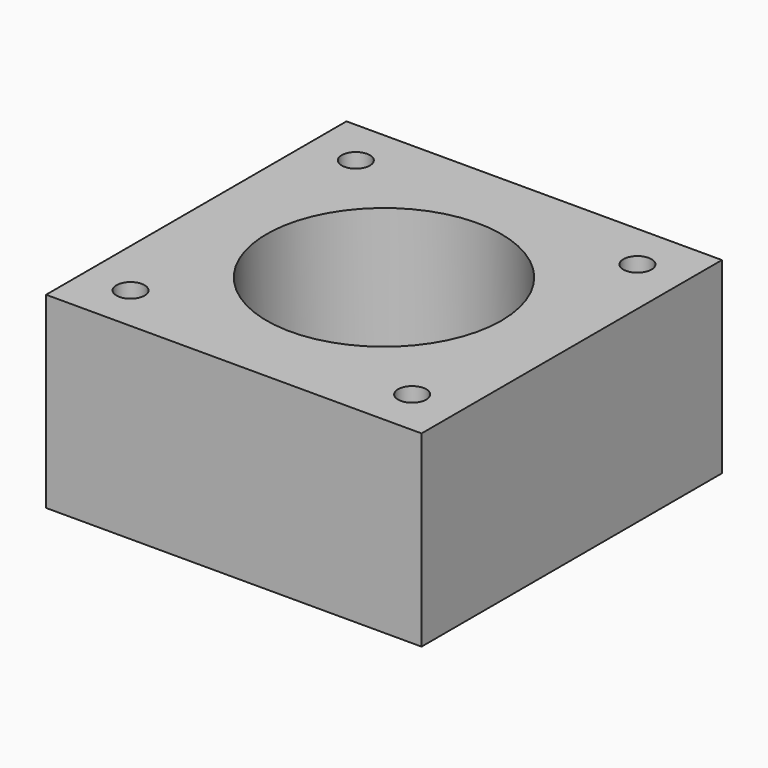
from build123d import *

# Parameters (mm, degrees)
F0_W     = 40
F0_H     = 40
F1_DEPTH = 20
F2_R     = 12.5
F3_DEPTH = 20
F4_R     = 1.5
F5_DEPTH = 25.4


with BuildPart() as f1:
    # F0 (on Top) → F1 (new body)
    with BuildSketch(Plane.XY):
        Rectangle(F0_W, F0_H)
    extrude(amount=F1_DEPTH)

    # F2 (on face) → F3 (cut, through all)
    with BuildSketch(Plane.XY.offset(20)):
        Circle(F2_R)
    extrude(amount=-F3_DEPTH, mode=Mode.SUBTRACT)

    # F4 (on face) → F5 (cut)
    with BuildSketch(Plane.XY.offset(20)):
        with Locations((15, 15)):
            Circle(F4_R)
        with Locations((15, -15)):
            Circle(F4_R)
        with Locations((-15, -15)):
            Circle(F4_R)
        with Locations((-15, 15)):
            Circle(F4_R)
    extrude(amount=-F5_DEPTH, mode=Mode.SUBTRACT)


solid = f1.part
